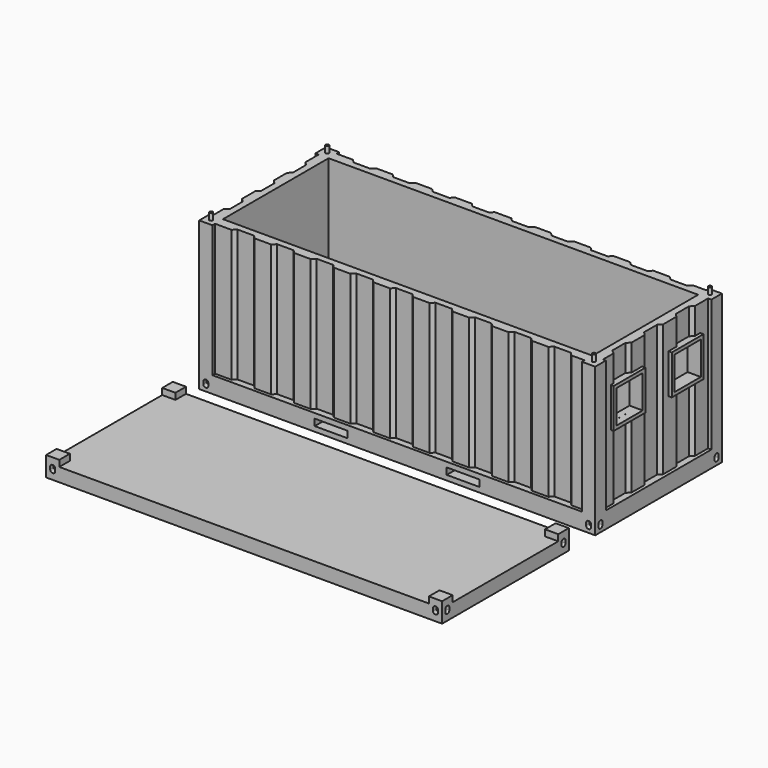
from build123d import *

# Parameters (mm, degrees)
F0_W           = 120
F0_H           = 48
F1_DEPTH       = 5
F2_W           = 112
F2_H           = 40
F3_DEPTH       = 40
F4_W           = 120
F4_H           = 48
F5_DEPTH       = 3
F6_W           = 4
F6_H           = 4
F7_DEPTH       = 2
F9_DEPTH       = 3
F11_DEPTH      = 3
F13_DEPTH      = 3
F15_DEPTH      = 3
F16_W          = 20
F16_H          = 35
F17_DEPTH      = 2
F17_DEPTH_BACK = 1
F18_W          = 18
F18_H          = 34
F19_DEPTH      = 0.5
F20_W          = 12
F20_H          = 12
F21_DEPTH      = 2
F22_W          = 10
F22_H          = 10
F23_DEPTH      = 25
F24_W          = 10
F24_H          = 10
F25_DEPTH      = 25
F26_W          = 10
F26_H          = 2
F27_DEPTH      = 50
F28_W          = 120
F28_H          = 5
F29_DEPTH      = 50
F30_R          = 0.5
F31_DEPTH      = 2
F32_W          = 120
F32_H          = 48
F33_DEPTH      = 4
F34_W          = 4
F34_H          = 4
F35_DEPTH      = 2
F37_R          = 0.75
F38_DEPTH      = 2
F39_DEPTH      = 48
F41_DEPTH      = 120
F44_DEPTH      = 4.1


with BuildPart() as f1:
    # F0 (on Top) → F1 (new body)
    with BuildSketch(Plane.XY):
        with Locations((60, 24)):
            Rectangle(F0_W, F0_H)
    extrude(amount=F1_DEPTH)

    # F2 (on face) → F3 (join)
    with BuildSketch(Plane.XY.offset(5)):
        Polygon((120, 44), (120, 48), (116, 48), (116, 47), (112, 47), (111, 46), (106, 46), (105, 47), (100, 47), (99, 46), (94, 46), (93, 47), (88, 47), (87, 46), (82, 46), (81, 47), (76, 47), (75, 46), (70, 46), (69, 47), (64, 47), (63, 46), (58, 46), (57, 47), (52, 47), (51, 46), (46, 46), (45, 47), (40, 47), (39, 46), (34, 46), (33, 47), (28, 47), (27, 46), (22, 46), (21, 47), (16, 47), (15, 46), (10, 46), (9, 47), (4, 47), (4, 48), (0, 48), (0, 44), (1, 44), (1, 39), (2, 38), (2, 33), (1, 32), (1, 27), (2, 26), (2, 21), (1, 20), (1, 15), (2.0232774122, 13.9767225878), (2.0232774122, 8.9767225878), (0.8758790047, 8.0948664663), (0.8758790047, 4), (0, 4), (0, 0), (4, 0), (4, 1), (9, 1), (10, 2), (15, 2), (16, 1), (21, 1), (22, 2), (27, 2), (28, 1), (33, 1), (34, 2), (39, 2), (40, 1), (45, 1), (46, 2), (51, 2), (52, 1), (57, 1), (58, 2), (63, 2), (64, 1), (69, 1), (70, 2), (75, 2), (76, 1), (81, 1), (82, 2), (87, 2), (88, 1), (93, 1), (94, 2), (99, 2), (100, 1), (105, 1), (106, 2), (111, 2), (112, 1), (116, 1), (116, 0), (120, 0), (120, 4), (119.1241209953, 4), (119.1241209953, 8.0948664663), (117.9767225878, 8.9767225878), (117.9767225878, 13.9767225878), (119, 15), (119, 20), (118, 21), (118, 26), (119, 27), (119, 32), (118, 33), (118, 38), (119, 39), (119, 44), align=None)
        with Locations((60, 24)):
            Rectangle(F2_W, F2_H, mode=Mode.SUBTRACT)
    extrude(amount=F3_DEPTH)

    # F4 (on face) → F5 (join)
    with BuildSketch(Plane.XY.offset(45)):
        with Locations((60, 24)):
            Rectangle(F4_W, F4_H)
    extrude(amount=F5_DEPTH)

    # F6 (on face) → F7 (join)
    with BuildSketch(Plane.XY.offset(48)):
        with Locations((2, 46)):
            Rectangle(F6_W, F6_H)
        with Locations((2, 2)):
            Rectangle(F6_W, F6_H)
        with Locations((118, 46)):
            Rectangle(F6_W, F6_H)
        with Locations((118, 2)):
            Rectangle(F6_W, F6_H)
    extrude(amount=F7_DEPTH)

    # F8 (on face) → F9 (cut)
    with BuildSketch(Plane.XZ):
        with BuildLine():
            Line((2.05, 49), (1.95, 49))
            ThreePointArc((1.95, 49), (1.4550252532, 48.7949747468), (1.25, 48.3))
            Line((1.25, 48.3), (1.25, 47.5))
            ThreePointArc((1.25, 47.5), (1.4550252532, 47.0050252532), (1.95, 46.8))
            Line((1.95, 46.8), (2.05, 46.8))
            ThreePointArc((2.05, 46.8), (2.5449747468, 47.0050252532), (2.75, 47.5))
            Line((2.75, 47.5), (2.75, 48.3))
            ThreePointArc((2.75, 48.3), (2.5449747468, 48.7949747468), (2.05, 49))
        make_face()
        with BuildLine():
            ThreePointArc((118.75, 48.3), (118.5449747468, 48.7949747468), (118.05, 49))
            Line((118.05, 49), (117.95, 49))
            ThreePointArc((117.95, 49), (117.4550252532, 48.7949747468), (117.25, 48.3))
            Line((117.25, 48.3), (117.25, 47.5))
            ThreePointArc((117.25, 47.5), (117.4550252532, 47.0050252532), (117.95, 46.8))
            Line((117.95, 46.8), (118.05, 46.8))
            ThreePointArc((118.05, 46.8), (118.5449747468, 47.0050252532), (118.75, 47.5))
            Line((118.75, 47.5), (118.75, 48.3))
        make_face()
        with BuildLine():
            Line((1.25, 2.5), (1.25, 1.7))
            ThreePointArc((1.25, 1.7), (1.4550252532, 1.2050252532), (1.95, 1))
            Line((1.95, 1), (2.05, 1))
            ThreePointArc((2.05, 1), (2.5449747468, 1.2050252532), (2.75, 1.7))
            Line((2.75, 1.7), (2.75, 2.5))
            ThreePointArc((2.75, 2.5), (2.5449747468, 2.9949747468), (2.05, 3.2))
            Line((2.05, 3.2), (1.95, 3.2))
            ThreePointArc((1.95, 3.2), (1.4550252532, 2.9949747468), (1.25, 2.5))
        make_face()
        with BuildLine():
            Line((117.25, 2.5), (117.25, 1.7))
            ThreePointArc((117.25, 1.7), (117.4550252532, 1.2050252532), (117.95, 1))
            Line((117.95, 1), (118.05, 1))
            ThreePointArc((118.05, 1), (118.5449747468, 1.2050252532), (118.75, 1.7))
            Line((118.75, 1.7), (118.75, 2.5))
            ThreePointArc((118.75, 2.5), (118.5449747468, 2.9949747468), (118.05, 3.2))
            Line((118.05, 3.2), (117.95, 3.2))
            ThreePointArc((117.95, 3.2), (117.4550252532, 2.9949747468), (117.25, 2.5))
        make_face()
    extrude(amount=-F9_DEPTH, mode=Mode.SUBTRACT)

    # F10 (on face) → F11 (cut)
    with BuildSketch(Plane.YZ.offset(120)):
        with BuildLine():
            Line((2.05, 49), (1.95, 49))
            ThreePointArc((1.95, 49), (1.4550252532, 48.7949747468), (1.25, 48.3))
            Line((1.25, 48.3), (1.25, 47.5))
            ThreePointArc((1.25, 47.5), (1.4550252532, 47.0050252532), (1.95, 46.8))
            Line((1.95, 46.8), (2.05, 46.8))
            ThreePointArc((2.05, 46.8), (2.5449747468, 47.0050252532), (2.75, 47.5))
            Line((2.75, 47.5), (2.75, 48.3))
            ThreePointArc((2.75, 48.3), (2.5449747468, 48.7949747468), (2.05, 49))
        make_face()
        with BuildLine():
            ThreePointArc((45.95, 49), (45.4550252532, 48.7949747468), (45.25, 48.3))
            Line((45.25, 48.3), (45.25, 47.5))
            ThreePointArc((45.25, 47.5), (45.4550252532, 47.0050252532), (45.95, 46.8))
            Line((45.95, 46.8), (46.05, 46.8))
            ThreePointArc((46.05, 46.8), (46.5449747468, 47.0050252532), (46.75, 47.5))
            Line((46.75, 47.5), (46.75, 48.3))
            ThreePointArc((46.75, 48.3), (46.5449747468, 48.7949747468), (46.05, 49))
            Line((46.05, 49), (45.95, 49))
        make_face()
        with BuildLine():
            ThreePointArc((1.25, 1.7), (1.4550252532, 1.2050252532), (1.95, 1))
            Line((1.95, 1), (2.05, 1))
            ThreePointArc((2.05, 1), (2.5449747468, 1.2050252532), (2.75, 1.7))
            Line((2.75, 1.7), (2.75, 2.5))
            ThreePointArc((2.75, 2.5), (2.5449747468, 2.9949747468), (2.05, 3.2))
            Line((2.05, 3.2), (1.95, 3.2))
            ThreePointArc((1.95, 3.2), (1.4550252532, 2.9949747468), (1.25, 2.5))
            Line((1.25, 2.5), (1.25, 1.7))
        make_face()
        with BuildLine():
            ThreePointArc((46.05, 1), (46.5449747468, 1.2050252532), (46.75, 1.7))
            Line((46.75, 1.7), (46.75, 2.5))
            ThreePointArc((46.75, 2.5), (46.5449747468, 2.9949747468), (46.05, 3.2))
            Line((46.05, 3.2), (45.95, 3.2))
            ThreePointArc((45.95, 3.2), (45.4550252532, 2.9949747468), (45.25, 2.5))
            Line((45.25, 2.5), (45.25, 1.7))
            ThreePointArc((45.25, 1.7), (45.4550252532, 1.2050252532), (45.95, 1))
            Line((45.95, 1), (46.05, 1))
        make_face()
    extrude(amount=-F11_DEPTH, mode=Mode.SUBTRACT)

    # F12 (on face) → F13 (cut)
    with BuildSketch(Plane(origin=(0, 48, 0), x_dir=(-1, 0, 0), z_dir=(0, 1, 0))):
        with BuildLine():
            Line((-117.95, 49), (-118.05, 49))
            ThreePointArc((-118.05, 49), (-118.5449747468, 48.7949747468), (-118.75, 48.3))
            Line((-118.75, 48.3), (-118.75, 47.5))
            ThreePointArc((-118.75, 47.5), (-118.5449747468, 47.0050252532), (-118.05, 46.8))
            Line((-118.05, 46.8), (-117.95, 46.8))
            ThreePointArc((-117.95, 46.8), (-117.4550252532, 47.0050252532), (-117.25, 47.5))
            Line((-117.25, 47.5), (-117.25, 48.3))
            ThreePointArc((-117.25, 48.3), (-117.4550252532, 48.7949747468), (-117.95, 49))
        make_face()
        with BuildLine():
            ThreePointArc((-118.75, 1.7), (-118.5449747468, 1.2050252532), (-118.05, 1))
            Line((-118.05, 1), (-117.95, 1))
            ThreePointArc((-117.95, 1), (-117.4550252532, 1.2050252532), (-117.25, 1.7))
            Line((-117.25, 1.7), (-117.25, 2.5))
            ThreePointArc((-117.25, 2.5), (-117.4550252532, 2.9949747468), (-117.95, 3.2))
            Line((-117.95, 3.2), (-118.05, 3.2))
            ThreePointArc((-118.05, 3.2), (-118.5449747468, 2.9949747468), (-118.75, 2.5))
            Line((-118.75, 2.5), (-118.75, 1.7))
        make_face()
        with BuildLine():
            ThreePointArc((-1.25, 48.3), (-1.4550252532, 48.7949747468), (-1.95, 49))
            Line((-1.95, 49), (-2.05, 49))
            ThreePointArc((-2.05, 49), (-2.5449747468, 48.7949747468), (-2.75, 48.3))
            Line((-2.75, 48.3), (-2.75, 47.5))
            ThreePointArc((-2.75, 47.5), (-2.5449747468, 47.0050252532), (-2.05, 46.8))
            Line((-2.05, 46.8), (-1.95, 46.8))
            ThreePointArc((-1.95, 46.8), (-1.4550252532, 47.0050252532), (-1.25, 47.5))
            Line((-1.25, 47.5), (-1.25, 48.3))
        make_face()
        with BuildLine():
            Line((-2.75, 2.5), (-2.75, 1.7))
            ThreePointArc((-2.75, 1.7), (-2.5449747468, 1.2050252532), (-2.05, 1))
            Line((-2.05, 1), (-1.95, 1))
            ThreePointArc((-1.95, 1), (-1.4550252532, 1.2050252532), (-1.25, 1.7))
            Line((-1.25, 1.7), (-1.25, 2.5))
            ThreePointArc((-1.25, 2.5), (-1.4550252532, 2.9949747468), (-1.95, 3.2))
            Line((-1.95, 3.2), (-2.05, 3.2))
            ThreePointArc((-2.05, 3.2), (-2.5449747468, 2.9949747468), (-2.75, 2.5))
        make_face()
    extrude(amount=-F13_DEPTH, mode=Mode.SUBTRACT)

    # F14 (on face) → F15 (cut)
    with BuildSketch(Plane(origin=(0, 0, 0), x_dir=(0, -1, 0), z_dir=(-1, 0, 0))):
        with BuildLine():
            Line((-45.95, 49), (-46.05, 49))
            ThreePointArc((-46.05, 49), (-46.5449747468, 48.7949747468), (-46.75, 48.3))
            Line((-46.75, 48.3), (-46.75, 47.5))
            ThreePointArc((-46.75, 47.5), (-46.5449747468, 47.0050252532), (-46.05, 46.8))
            Line((-46.05, 46.8), (-45.95, 46.8))
            ThreePointArc((-45.95, 46.8), (-45.4550252532, 47.0050252532), (-45.25, 47.5))
            Line((-45.25, 47.5), (-45.25, 48.3))
            ThreePointArc((-45.25, 48.3), (-45.4550252532, 48.7949747468), (-45.95, 49))
        make_face()
        with BuildLine():
            ThreePointArc((-46.05, 3.2), (-46.5449747468, 2.9949747468), (-46.75, 2.5))
            Line((-46.75, 2.5), (-46.75, 1.7))
            ThreePointArc((-46.75, 1.7), (-46.5449747468, 1.2050252532), (-46.05, 1))
            Line((-46.05, 1), (-45.95, 1))
            ThreePointArc((-45.95, 1), (-45.4550252532, 1.2050252532), (-45.25, 1.7))
            Line((-45.25, 1.7), (-45.25, 2.5))
            ThreePointArc((-45.25, 2.5), (-45.4550252532, 2.9949747468), (-45.95, 3.2))
            Line((-45.95, 3.2), (-46.05, 3.2))
        make_face()
        with BuildLine():
            ThreePointArc((-2.05, 49), (-2.5449747468, 48.7949747468), (-2.75, 48.3))
            Line((-2.75, 48.3), (-2.75, 47.5))
            ThreePointArc((-2.75, 47.5), (-2.5449747468, 47.0050252532), (-2.05, 46.8))
            Line((-2.05, 46.8), (-1.95, 46.8))
            ThreePointArc((-1.95, 46.8), (-1.4550252532, 47.0050252532), (-1.25, 47.5))
            Line((-1.25, 47.5), (-1.25, 48.3))
            ThreePointArc((-1.25, 48.3), (-1.4550252532, 48.7949747468), (-1.95, 49))
            Line((-1.95, 49), (-2.05, 49))
        make_face()
        with BuildLine():
            Line((-2.05, 1), (-1.95, 1))
            ThreePointArc((-1.95, 1), (-1.4550252532, 1.2050252532), (-1.25, 1.7))
            Line((-1.25, 1.7), (-1.25, 2.5))
            ThreePointArc((-1.25, 2.5), (-1.4550252532, 2.9949747468), (-1.95, 3.2))
            Line((-1.95, 3.2), (-2.05, 3.2))
            ThreePointArc((-2.05, 3.2), (-2.5449747468, 2.9949747468), (-2.75, 2.5))
            Line((-2.75, 2.5), (-2.75, 1.7))
            ThreePointArc((-2.75, 1.7), (-2.5449747468, 1.2050252532), (-2.05, 1))
        make_face()
    extrude(amount=-F15_DEPTH, mode=Mode.SUBTRACT)

    # F16 (on face) → F17 (join, two sides)
    with BuildSketch(Plane(origin=(0.8758790047, 0, 0), x_dir=(0, -1, 0), z_dir=(-1, 0, 0))) as f17_sk:
        with Locations((-16.0474332331, 22.5)):
            Rectangle(F16_W, F16_H)
    extrude(amount=-F17_DEPTH)
    extrude(f17_sk.sketch, amount=F17_DEPTH_BACK)

    # F18 (on face) → F19 (cut)
    with BuildSketch(Plane(origin=(-0.1241209953, 0, 0), x_dir=(0, -1, 0), z_dir=(-1, 0, 0))):
        with Locations((-16.0474332331, 22.5)):
            Rectangle(F18_W, F18_H)
    extrude(amount=-F19_DEPTH, mode=Mode.SUBTRACT)

    # F20 (on face) → F21 (join)
    with BuildSketch(Plane.YZ.offset(120)):
        with Locations((13, 31)):
            Rectangle(F20_W, F20_H)
        with Locations((35, 31)):
            Rectangle(F20_W, F20_H)
    extrude(amount=-F21_DEPTH)

    # F22 (on face) → F23 (cut)
    with BuildSketch(Plane.YZ.offset(120)):
        with Locations((13, 31)):
            Rectangle(F22_W, F22_H)
    extrude(amount=-F23_DEPTH, mode=Mode.SUBTRACT)

    # F24 (on face) → F25 (cut)
    with BuildSketch(Plane.YZ.offset(120)):
        with Locations((35, 31)):
            Rectangle(F24_W, F24_H)
    extrude(amount=-F25_DEPTH, mode=Mode.SUBTRACT)

    # F26 (on face) → F27 (cut)
    with BuildSketch(Plane(origin=(0, 48, 0), x_dir=(-1, 0, 0), z_dir=(0, 1, 0))):
        with Locations((-80, 2.5)):
            Rectangle(F26_W, F26_H)
        with Locations((-40, 2.5)):
            Rectangle(F26_W, F26_H)
    extrude(amount=-F27_DEPTH, mode=Mode.SUBTRACT)

    # F28 (on face) → F29 (cut)
    with BuildSketch(Plane.XZ):
        with Locations((60, 47.5)):
            Rectangle(F28_W, F28_H)
    extrude(amount=-F29_DEPTH, mode=Mode.SUBTRACT)

    # F30 (on face) → F31 (join)
    with BuildSketch(Plane.XY.offset(45)):
        with Locations((2, 46)):
            Circle(F30_R)
        with Locations((118, 46)):
            Circle(F30_R)
        with Locations((118, 2)):
            Circle(F30_R)
        with Locations((2, 2)):
            Circle(F30_R)
    extrude(amount=F31_DEPTH)


with BuildPart() as f33:
    # F32 (on Top) → F33 (new body)
    with BuildSketch(Plane.XY):
        with Locations((60, -34)):
            Rectangle(F32_W, F32_H)
    extrude(amount=F33_DEPTH)

    # F34 (on face) → F35 (join)
    with BuildSketch(Plane.XY.offset(4)):
        with Locations((2, -12)):
            Rectangle(F34_W, F34_H)
        with Locations((118, -12)):
            Rectangle(F34_W, F34_H)
        with Locations((118, -56)):
            Rectangle(F34_W, F34_H)
        with Locations((2, -56)):
            Rectangle(F34_W, F34_H)
    extrude(amount=F35_DEPTH)

    # F37 (on face) → F38 (cut)
    with BuildSketch(Plane(origin=(0, 0, 0), x_dir=(1, 0, 0), z_dir=(0, 0, -1))):
        with Locations((2, 56)):
            Circle(F37_R)
        with Locations((118, 56)):
            Circle(F37_R)
        with Locations((2, 12)):
            Circle(F37_R)
        with Locations((118, 12)):
            Circle(F37_R)
    extrude(amount=-F38_DEPTH, mode=Mode.SUBTRACT)

    # F36 (on face) → F39 (cut)
    with BuildSketch(Plane.XZ.offset(58)):
        with BuildLine():
            Line((2.05, 4), (1.95, 4))
            ThreePointArc((1.95, 4), (1.4550252532, 3.7949747468), (1.25, 3.3))
            Line((1.25, 3.3), (1.25, 2.5))
            ThreePointArc((1.25, 2.5), (1.4550252532, 2.0050252532), (1.95, 1.8))
            Line((1.95, 1.8), (2.05, 1.8))
            ThreePointArc((2.05, 1.8), (2.5449747468, 2.0050252532), (2.75, 2.5))
            Line((2.75, 2.5), (2.75, 3.3))
            ThreePointArc((2.75, 3.3), (2.5449747468, 3.7949747468), (2.05, 4))
        make_face()
        with BuildLine():
            Line((118.75, 2.5), (118.75, 3.3))
            ThreePointArc((118.75, 3.3), (118.5449747468, 3.7949747468), (118.05, 4))
            Line((118.05, 4), (117.95, 4))
            ThreePointArc((117.95, 4), (117.4550252532, 3.7949747468), (117.25, 3.3))
            Line((117.25, 3.3), (117.25, 2.5))
            ThreePointArc((117.25, 2.5), (117.4550252532, 2.0050252532), (117.95, 1.8))
            Line((117.95, 1.8), (118.05, 1.8))
            ThreePointArc((118.05, 1.8), (118.5449747468, 2.0050252532), (118.75, 2.5))
        make_face()
    extrude(amount=-F39_DEPTH, mode=Mode.SUBTRACT)

    # F40 (on face) → F41 (cut)
    with BuildSketch(Plane(origin=(0, 0, 0), x_dir=(0, -1, 0), z_dir=(-1, 0, 0))):
        with BuildLine():
            Line((12.05, 4), (12, 4))
            Line((12, 4), (11.95, 4))
            ThreePointArc((11.95, 4), (11.4550252532, 3.7949747468), (11.25, 3.3))
            Line((11.25, 3.3), (11.25, 2.5))
            ThreePointArc((11.25, 2.5), (11.4550252532, 2.0050252532), (11.95, 1.8))
            Line((11.95, 1.8), (12.05, 1.8))
            ThreePointArc((12.05, 1.8), (12.5449747468, 2.0050252532), (12.75, 2.5))
            Line((12.75, 2.5), (12.75, 3.3))
            ThreePointArc((12.75, 3.3), (12.5449747468, 3.7949747468), (12.05, 4))
        make_face()
        with BuildLine():
            ThreePointArc((56.75, 3.3), (56.5449747468, 3.7949747468), (56.05, 4))
            Line((56.05, 4), (56, 4))
            Line((56, 4), (55.95, 4))
            ThreePointArc((55.95, 4), (55.4550252532, 3.7949747468), (55.25, 3.3))
            Line((55.25, 3.3), (55.25, 2.5))
            ThreePointArc((55.25, 2.5), (55.4550252532, 2.0050252532), (55.95, 1.8))
            Line((55.95, 1.8), (56.05, 1.8))
            ThreePointArc((56.05, 1.8), (56.5449747468, 2.0050252532), (56.75, 2.5))
            Line((56.75, 2.5), (56.75, 3.3))
        make_face()
    extrude(amount=-F41_DEPTH, mode=Mode.SUBTRACT)

    # F43 (on face) → F44 (join)
    with BuildSketch(Plane(origin=(0, 0, 0), x_dir=(1, 0, 0), z_dir=(0, 0, -1))):
        Polygon((116, 54), (116, 58), (4, 58), (4, 54), (0, 54), (0, 14), (4, 14), (4, 10), (116, 10), (116, 14), (120, 14), (120, 54), align=None)
    extrude(amount=-F44_DEPTH)


solid = Compound([f1.part, f33.part])
